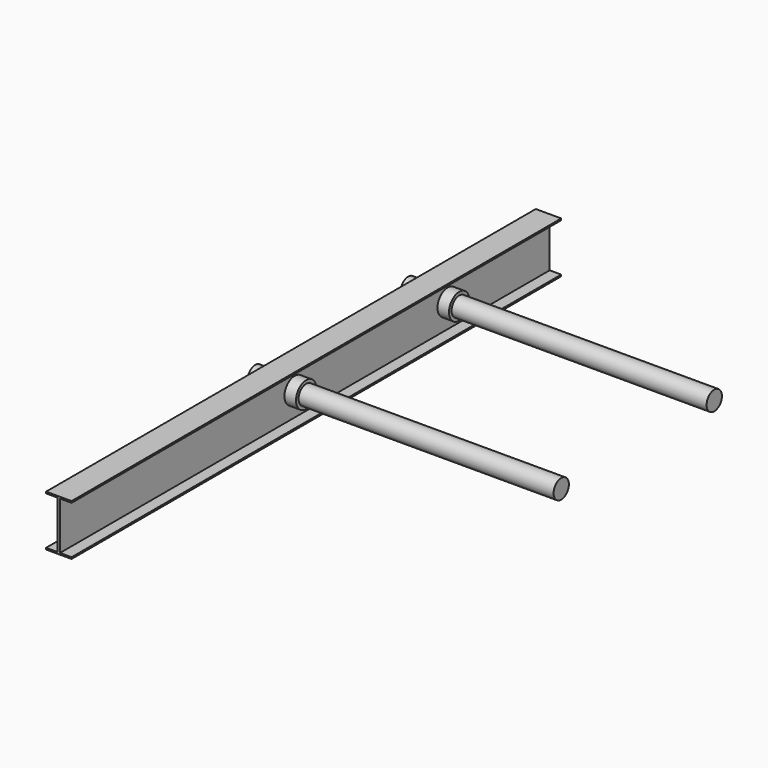
from build123d import *

# Parameters (mm, degrees)
F1_DEPTH      = 2438.4
F2_R          = 50.8
F3_DEPTH      = 55.5635
F4_R          = 50.8
F4_R_2        = 38.1
F5_DEPTH      = 46.0375
F5_DEPTH_BACK = 55.5625
F6_R          = 38.1
F7_DEPTH      = 1016
F7_DEPTH_BACK = 203.2


with BuildPart() as f1:
    # F0 (on Front) → F1 (new body)
    with BuildSketch(Plane.XZ):
        Polygon((-50.8, -101.6), (50.8, -101.6), (50.8, -95.25), (4.7625, -95.25), (4.7625, 95.25), (50.8, 95.25), (50.8, 101.6), (-50.8, 101.6), (-50.8, 95.25), (-4.7625, 95.25), (-4.7625, -95.25), (-50.8, -95.25), align=None)
    extrude(amount=-F1_DEPTH)

    # F2 (on face) → F3 (cut, through all)
    with BuildSketch(Plane.YZ.offset(4.7625)):
        with Locations((1168.4, 0)):
            Circle(F2_R)
        with Locations((1930.4, 0)):
            Circle(F2_R)
    extrude(amount=-F3_DEPTH, mode=Mode.SUBTRACT)

    # F4 (on face) → F5 (join, two sides)
    with BuildSketch(Plane.YZ.offset(4.7625)) as f5_sk:
        with Locations((1168.4, 0)):
            Circle(F4_R)
        with Locations((1168.4, 0)):
            Circle(F4_R_2, mode=Mode.SUBTRACT)
        with Locations((1930.4, 0)):
            Circle(F4_R)
        with Locations((1930.4, 0)):
            Circle(F4_R_2, mode=Mode.SUBTRACT)
    extrude(amount=F5_DEPTH)
    extrude(f5_sk.sketch, amount=-F5_DEPTH_BACK)

    # F6 (on face) → F7 (join, two sides)
    with BuildSketch(Plane.YZ.offset(50.8)) as f7_sk:
        with Locations((1168.4, 0)):
            Circle(F6_R)
        with Locations((1930.4, 0)):
            Circle(F6_R)
    extrude(amount=F7_DEPTH)
    extrude(f7_sk.sketch, amount=-F7_DEPTH_BACK)


solid = f1.part
